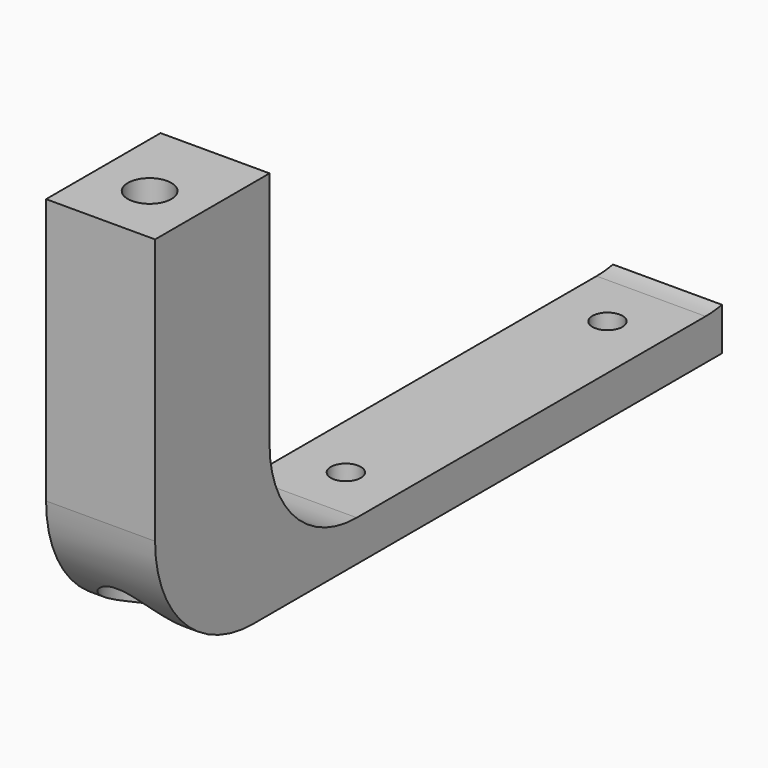
from build123d import *

# Parameters (mm, degrees)
CYLINDER030_R     = 1.6
CYLINDER030_DEPTH = 28
BOX040_W          = 8
BOX040_H          = 10.5
BOX040_DEPTH      = 2.5
CYLINDER007_R     = 1.1
CYLINDER007_DEPTH = 28
CYLINDER006_R     = 1.1
CYLINDER006_DEPTH = 28
CYLINDER005_R     = 1.6
CYLINDER005_DEPTH = 28
CYLINDER004_R     = 3
CYLINDER004_DEPTH = 4
BOX009_W          = 4
BOX009_H          = 52
BOX009_DEPTH      = 1.5
BOX008_W          = 77
BOX008_H          = 48
BOX008_DEPTH      = 40
FILLET002_R       = 8
BOX005_W          = 8
BOX005_H          = 52
BOX005_DEPTH      = 26
FILLET003_R       = 9


with BuildPart() as cylinder030:
    # Cylinder030 → Cylinder030 (new body)
    with BuildSketch(Plane(origin=(74, 76, -28), x_dir=(1, 0, 0), z_dir=(0, 0, 1))):
        Circle(CYLINDER030_R)
    extrude(amount=CYLINDER030_DEPTH)


with BuildPart() as cut030:
    # Box040 → Box040 (new body)
    with BuildSketch(Plane(origin=(70, 71.5, -26), x_dir=(1, 0, 0), z_dir=(0, 0, 1))):
        with Locations((4, 5.25)):
            Rectangle(BOX040_W, BOX040_H)
    extrude(amount=BOX040_DEPTH)

    # Cut030: cut Cylinder030
    add(cylinder030.part, mode=Mode.SUBTRACT)


with BuildPart() as cut030_1:
    # Cut030 placement: moved
    add(cut030.part.moved(Location((0, 0, 26))))


with BuildPart() as cylinder007:
    # Cylinder007 → Cylinder007 (new body)
    with BuildSketch(Plane(origin=(74, 118, -26), x_dir=(1, 0, 0), z_dir=(0, 0, 1))):
        Circle(CYLINDER007_R)
    extrude(amount=CYLINDER007_DEPTH)


with BuildPart() as fusion007:
    # Cylinder006 → Cylinder006 (new body)
    with BuildSketch(Plane(origin=(74, 94, -26), x_dir=(1, 0, 0), z_dir=(0, 0, 1))):
        Circle(CYLINDER006_R)
    extrude(amount=CYLINDER006_DEPTH)

    # Fusion007: union Cylinder007
    add(cylinder007.part)


with BuildPart() as cylinder005:
    # Cylinder005 → Cylinder005 (new body)
    with BuildSketch(Plane(origin=(74, 79, -26), x_dir=(1, 0, 0), z_dir=(0, 0, 1))):
        Circle(CYLINDER005_R)
    extrude(amount=CYLINDER005_DEPTH)


with BuildPart() as fusion006:
    # Cylinder004 → Cylinder004 (new body)
    with BuildSketch(Plane(origin=(74, 79, -26), x_dir=(1, 0, 0), z_dir=(0, 0, 1))):
        Circle(CYLINDER004_R)
    extrude(amount=CYLINDER004_DEPTH)

    # Fusion006: union Cylinder005
    add(cylinder005.part)


with BuildPart() as fusion006_1:
    # Fusion006 placement: moved
    add(fusion006.part.moved(Location((0, -3, 0))))


with BuildPart() as box009:
    # Box009 → Box009 (new body)
    with BuildSketch(Plane(origin=(72, 71.5, -26), x_dir=(1, 0, 0), z_dir=(0, 0, 1))):
        with Locations((2, 26)):
            Rectangle(BOX009_W, BOX009_H)
    extrude(amount=BOX009_DEPTH)


with BuildPart() as fillet002:
    # Box008 → Box008 (new body)
    with BuildSketch(Plane(origin=(62, 82, -27), x_dir=(1, 0, 0), z_dir=(0, 0, 1))):
        with Locations((38.5, 24)):
            Rectangle(BOX008_W, BOX008_H)
    extrude(amount=BOX008_DEPTH)

    # Fillet002
    fillet002_edges = [fillet002.edges().sort_by_distance(p)[0] for p in [
        (100.5, 82, -27),
        (100.5, 82, 13),
        (100.5, 130, -27),
        (100.5, 130, 13),
    ]]
    fillet(fillet002_edges, radius=FILLET002_R)


with BuildPart() as fillet002_1:
    # Fillet002 placement: moved
    add(fillet002.part.moved(Location((0, 0, 4))))


with BuildPart() as fusion034:
    # Box005 → Box005 (new body)
    with BuildSketch(Plane(origin=(70, 71.5, -26), x_dir=(1, 0, 0), z_dir=(0, 0, 1))):
        with Locations((4, 26)):
            Rectangle(BOX005_W, BOX005_H)
    extrude(amount=BOX005_DEPTH)

    # Cut002: cut Fillet002
    add(fillet002_1.part, mode=Mode.SUBTRACT)

    # Fillet003
    fillet003_edges = [fusion034.edges().sort_by_distance(p)[0] for p in [
        (74, 71.5, -26),
    ]]
    fillet(fillet003_edges, radius=FILLET003_R)

    # Cut003: cut Box009
    add(box009.part, mode=Mode.SUBTRACT)

    # Cut007: cut Fusion006
    add(fusion006_1.part, mode=Mode.SUBTRACT)

    # Cut008: cut Fusion007
    add(fusion007.part, mode=Mode.SUBTRACT)

    # Fusion034: union Cut030
    add(cut030_1.part)


solid = fusion034.part
